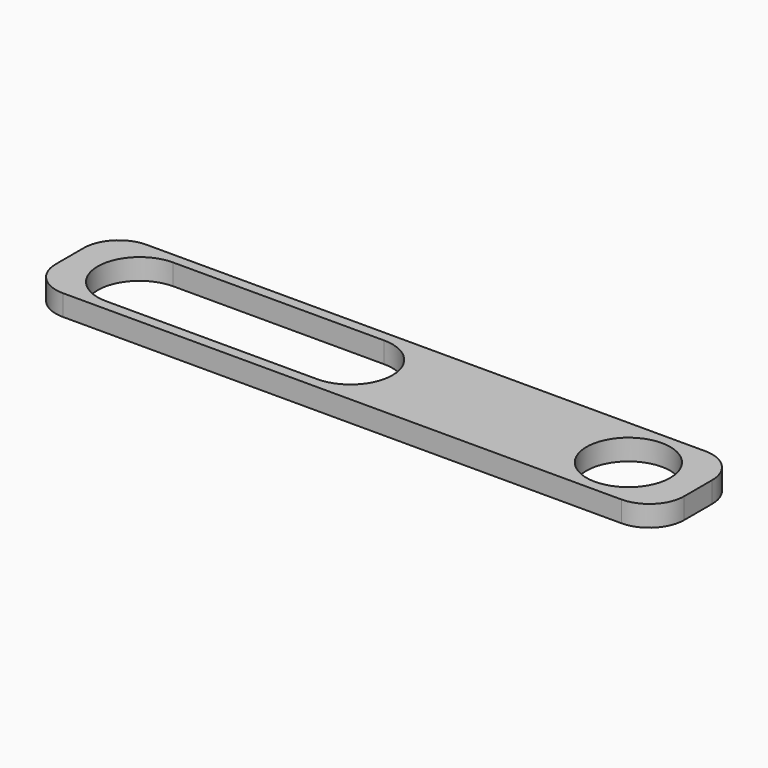
from build123d import *

# Parameters (mm, degrees)
F0_W     = 90
F0_H     = 15
F0_R     = 6
F1_DEPTH = 3
F2_R     = 5


with BuildPart() as f1:
    # F0 (on Top) → F1 (new body)
    with BuildSketch(Plane.XY):
        Rectangle(F0_W, F0_H)
        with BuildLine():
            ThreePointArc((-35, -6), (-41, 0), (-35, 6))
            Line((-35, 6), (-4.786196, 6))
            ThreePointArc((-4.786196, 6), (-0.543555, 4.242641), (1.213804, 0))
            ThreePointArc((1.213804, 0), (-0.543555, -4.242641), (-4.786196, -6))
            Line((-4.786196, -6), (-35, -6))
        make_face(mode=Mode.SUBTRACT)
        with Locations((35, 0)):
            Circle(F0_R, mode=Mode.SUBTRACT)
    extrude(amount=F1_DEPTH)

    # F2
    f2_edges = [f1.edges().sort_by_distance(p)[0] for p in [
        (-45, -7.5, 1.5),
        (-45, 7.5, 1.5),
        (45, -7.5, 1.5),
        (45, 7.5, 1.5),
    ]]
    fillet(f2_edges, radius=F2_R)


solid = f1.part
